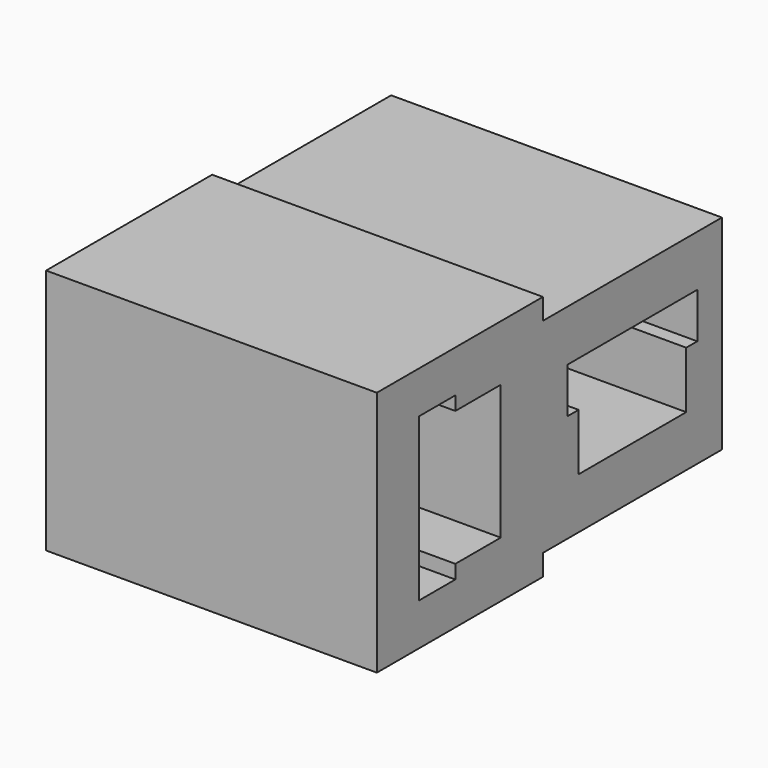
from build123d import *

# Parameters (mm, degrees)
PAD036_DEPTH    = 10.2
POCKET052_DEPTH = 7.7
SKETCH101_W     = 1.2
SKETCH101_H     = 4.1
SKETCH101_W_2   = 4.1
SKETCH101_H_2   = 1.2
POCKET053_DEPTH = 4


with BuildPart() as part:
    # Sketch099 → Pad036 (new body)
    with BuildSketch(Plane.YZ):
        Polygon((-6.4, 7.6), (0, 7.6), (0, 6.95), (6.9, 6.95), (6.9, 0.65), (0, 0.65), (0, 0), (-6.4, 0), align=None)
    extrude(amount=PAD036_DEPTH)

    # Sketch100 (on Face10 of Pad036) → Pocket052 (cut)
    with BuildSketch(Plane.YZ.offset(10.2)):
        Polygon((-3.375, 1.725), (-1.625, 1.725), (-1.625, 5.875), (-3.375, 5.875), (-3.375, 6.3), (-4.775, 6.3), (-4.775, 1.3), (-3.375, 1.3), align=None)
        Polygon((0.95, 5.375), (0.95, 3.975), (1.375, 3.975), (1.375, 2.225), (5.525, 2.225), (5.525, 3.975), (5.95, 3.975), (5.95, 5.375), align=None)
    extrude(amount=-POCKET052_DEPTH, mode=Mode.SUBTRACT)

    # Sketch101 (on Face28 of Pocket052) → Pocket053 (cut)
    with BuildSketch(Plane.YZ.offset(2.5)):
        with Locations((-4.175, 3.8)):
            Rectangle(SKETCH101_W, SKETCH101_H)
        with Locations((3.45, 4.775)):
            Rectangle(SKETCH101_W_2, SKETCH101_H_2)
    extrude(amount=-POCKET053_DEPTH, mode=Mode.SUBTRACT)


solid = part.part
